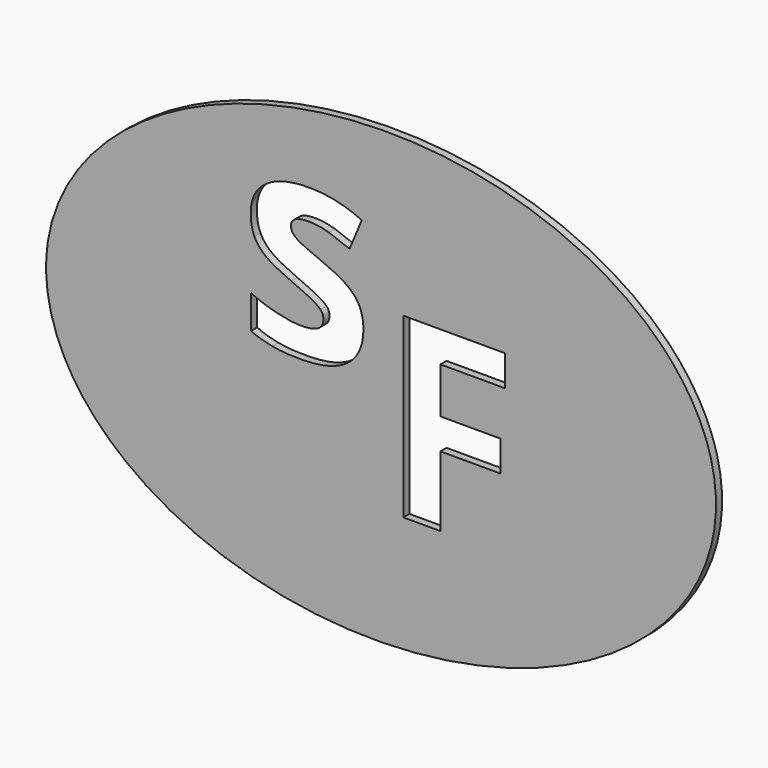
from build123d import *

# Parameters (mm, degrees)
F1_DEPTH = 1


with BuildPart() as f1:
    # F0 (on Front) → F1 (new body)
    with BuildSketch(Plane.XZ):
        with BuildLine():
            add(Edge.make_bspline(
                [(-43.8525755348, -1.0842911587), (-42.5883058161, -52.2158372315), (22.5584226268, -25.0236274571), (87.7051510696, 2.1685823173), (21.294152908, 26.1079186158), (-45.1168452535, 50.0472549142), (-43.8525755348, -1.0842911587)],
                knots=[0, 0, 0, 2.0943951024, 2.0943951024, 4.1887902048, 4.1887902048, 6.2831853072, 6.2831853072, 6.2831853072], degree=2, weights=[1, 0.5, 1, 0.5, 1, 0.5, 1]))
        make_face()
        Polygon((7.776985474, -5.0187406021), (7.776985474, -14.210648826), (2.9265488531, -14.210648826), (2.9265488531, 9.0439628433), (16.2563426727, 9.0439628433), (16.2563426727, 5.002780601), (7.776985474, 5.002780601), (7.776985474, -0.9928273103), (15.6659432519, -0.9928273103), (15.6659432519, -5.0187406021), align=None, mode=Mode.SUBTRACT)
        with BuildLine():
            add(Edge.make_bspline(
                [(-2.8158036974, 8.260989306), (-2.3094042182, 7.2175837857), (-2.3094042182, 5.7762929603)],
                knots=[0, 0, 0, 1, 1, 1], degree=2))
            add(Edge.make_bspline(
                [(-2.3094042182, 5.7762929603), (-2.3094042182, 2.7824147208), (-4.3878680147, 1.215915233)],
                knots=[0, 0, 0, 1, 1, 1], degree=2))
            add(Edge.make_bspline(
                [(-4.3878680147, 1.215915233), (-6.4663318111, -0.3505842548), (-10.6065649156, -0.3505842548)],
                knots=[0, 0, 0, 1, 1, 1], degree=2))
            add(Edge.make_bspline(
                [(-10.6065649156, -0.3505842548), (-12.7267649329, -0.3505842548), (-14.2237040526, -0.0612131239)],
                knots=[0, 0, 0, 1, 1, 1], degree=2))
            add(Edge.make_bspline(
                [(-14.2237040526, -0.0612131239), (-15.7206431724, 0.2281580071), (-17.0228132617, 0.7846409513)],
                knots=[0, 0, 0, 1, 1, 1], degree=2))
            Line((-17.0228132617, 0.7846409513), (-17.0228132617, 5.1641617218))
            add(Edge.make_bspline(
                [(-17.0228132617, 5.1641617218), (-15.5481334597, 4.4685580416), (-13.6950452557, 3.9983299538)],
                knots=[0, 0, 0, 1, 1, 1], degree=2))
            add(Edge.make_bspline(
                [(-13.6950452557, 3.9983299538), (-11.8419570516, 3.528101866), (-10.4340552029, 3.528101866)],
                knots=[0, 0, 0, 1, 1, 1], degree=2))
            add(Edge.make_bspline(
                [(-10.4340552029, 3.528101866), (-7.5459087228, 3.528101866), (-7.5459087228, 5.1975506984)],
                knots=[0, 0, 0, 1, 1, 1], degree=2))
            add(Edge.make_bspline(
                [(-7.5459087228, 5.1975506984), (-7.5459087228, 5.8263764253), (-7.9298819542, 6.2186969009)],
                knots=[0, 0, 0, 1, 1, 1], degree=2))
            add(Edge.make_bspline(
                [(-7.9298819542, 6.2186969009), (-8.3138551857, 6.6110173766), (-9.2515289466, 7.1062871969)],
                knots=[0, 0, 0, 1, 1, 1], degree=2))
            add(Edge.make_bspline(
                [(-9.2515289466, 7.1062871969), (-10.1892027075, 7.6015570172), (-11.7529197806, 8.2582068913)],
                knots=[0, 0, 0, 1, 1, 1], degree=2))
            add(Edge.make_bspline(
                [(-11.7529197806, 8.2582068913), (-13.9955460455, 9.1986630669), (-15.0500812247, 9.9999985065)],
                knots=[0, 0, 0, 1, 1, 1], degree=2))
            add(Edge.make_bspline(
                [(-15.0500812247, 9.9999985065), (-16.1046164039, 10.8013339461), (-16.5804093211, 11.8363922222)],
                knots=[0, 0, 0, 1, 1, 1], degree=2))
            add(Edge.make_bspline(
                [(-16.5804093211, 11.8363922222), (-17.0562022384, 12.8714504983), (-17.0562022384, 14.379519277)],
                knots=[0, 0, 0, 1, 1, 1], degree=2))
            add(Edge.make_bspline(
                [(-17.0562022384, 14.379519277), (-17.0562022384, 16.9727297968), (-15.0500812247, 18.3889788896)],
                knots=[0, 0, 0, 1, 1, 1], degree=2))
            add(Edge.make_bspline(
                [(-15.0500812247, 18.3889788896), (-13.043960211, 19.8052279825), (-9.3544782913, 19.8052279825)],
                knots=[0, 0, 0, 1, 1, 1], degree=2))
            add(Edge.make_bspline(
                [(-9.3544782913, 19.8052279825), (-5.8430709136, 19.8052279825), (-2.520867737, 18.2748998861)],
                knots=[0, 0, 0, 1, 1, 1], degree=2))
            Line((-2.520867737, 18.2748998861), (-4.1179737868, 14.4518620597))
            add(Edge.make_bspline(
                [(-4.1179737868, 14.4518620597), (-5.5815239299, 15.0751229572), (-6.8503050426, 15.475790677)],
                knots=[0, 0, 0, 1, 1, 1], degree=2))
            add(Edge.make_bspline(
                [(-6.8503050426, 15.475790677), (-8.1190861552, 15.8764583968), (-9.4435155623, 15.8764583968)],
                knots=[0, 0, 0, 1, 1, 1], degree=2))
            add(Edge.make_bspline(
                [(-9.4435155623, 15.8764583968), (-11.7918735867, 15.8764583968), (-11.7918735867, 14.6076772841)],
                knots=[0, 0, 0, 1, 1, 1], degree=2))
            add(Edge.make_bspline(
                [(-11.7918735867, 14.6076772841), (-11.7918735867, 13.8953791156), (-11.0350567826, 13.3722851481)],
                knots=[0, 0, 0, 1, 1, 1], degree=2))
            add(Edge.make_bspline(
                [(-11.0350567826, 13.3722851481), (-10.2782399786, 12.8491911806), (-7.7184184354, 11.8252625633)],
                knots=[0, 0, 0, 1, 1, 1], degree=2))
            add(Edge.make_bspline(
                [(-7.7184184354, 11.8252625633), (-5.4424031938, 10.901500876), (-4.3823031852, 10.1029478512)],
                knots=[0, 0, 0, 1, 1, 1], degree=2))
            add(Edge.make_bspline(
                [(-4.3823031852, 10.1029478512), (-3.3222031766, 9.3043948263), (-2.8158036974, 8.260989306)],
                knots=[0, 0, 0, 1, 1, 1], degree=2))
        make_face(mode=Mode.SUBTRACT)
    extrude(amount=F1_DEPTH)


solid = f1.part
